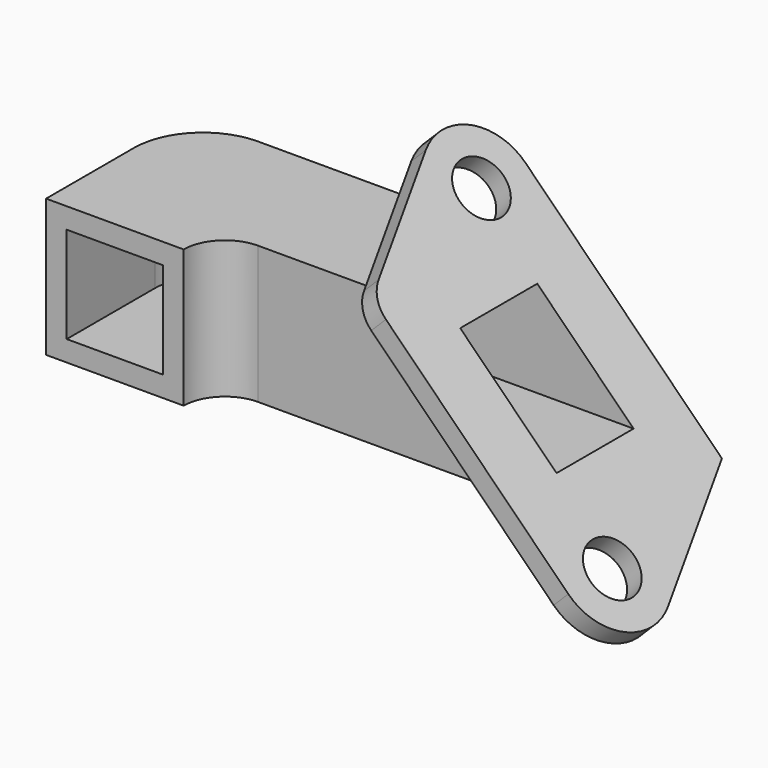
from build123d import *

# Parameters (mm, degrees)
F1_DEPTH = 20
F2_T     = -6
F4_DEPTH = 40.001
F5_R     = 8
F5_W     = 39.5979797464
F5_H     = 28
F6_DEPTH = 6
F7_W     = 28
F7_H     = 28
F8_DEPTH = 143.1345136524


with BuildPart() as f1:
    # F0 (on Top) → F1 (new body, symmetric)
    with BuildSketch(Plane.XY):
        with BuildLine():
            Line((-20, 32), (-20, 0))
            Line((-20, 0), (20, 0))
            ThreePointArc((20, 0), (23.5147186258, 8.4852813742), (32, 12))
            Line((32, 12), (120, 12))
            Line((120, 12), (80, 52))
            Line((80, 52), (0, 52))
            ThreePointArc((0, 52), (-14.1421356237, 46.1421356237), (-20, 32))
        make_face()
        Polygon((80, 52), (120, 12), (120, 52), align=None)
    extrude(amount=F1_DEPTH, both=True)

    # F2
    f2_openings = [f1.faces().sort_by_distance(p)[0] for p in [
        (0, 0, 0),
        (120, 32, 0),
    ]]
    offset(amount=F2_T, openings=f2_openings)

    # F3 (on face) → F4 (cut, through all)
    with BuildSketch(Plane.XZ.offset(-12)):
        Polygon((80, 20), (120, -20), (120, 20), align=None)
    extrude(amount=-F4_DEPTH, mode=Mode.SUBTRACT)

    # F5 (on face) → F6 (join)
    with BuildSketch(Plane(origin=(50, 0, 50), x_dir=(0.7071067812, 0, -0.7071067812), z_dir=(0.7071067812, 0, 0.7071067812))):
        with BuildLine():
            Line((106.4730738116, 64), (25.7106781187, 64))
            ThreePointArc((25.7106781187, 64), (11.8542716581, 56), (11.8542716581, 40))
            Line((11.8542716581, 40), (32.0615310797, 5))
            ThreePointArc((32.0615310797, 5), (35.7217851176, 1.3397459622), (40.7217851176, 0))
            Line((40.7217851176, 0), (115.7106781187, 0))
            ThreePointArc((115.7106781187, 0), (129.5670845792, 8), (129.5670845792, 24))
            Line((129.5670845792, 24), (106.4730738116, 64))
        make_face()
        with Locations((115.7106781187, 16)):
            Circle(F5_R, mode=Mode.SUBTRACT)
        with Locations((25.7106781187, 48)):
            Circle(F5_R, mode=Mode.SUBTRACT)
        with Locations((70.7106781187, 32)):
            Rectangle(F5_W, F5_H, mode=Mode.SUBTRACT)
    extrude(amount=-F6_DEPTH)

    # F7 (on Right) → F8 (cut, through all)
    with BuildSketch(Plane.YZ):
        with Locations((32, 0)):
            Rectangle(F7_W, F7_H)
    extrude(amount=F8_DEPTH, mode=Mode.SUBTRACT)


solid = f1.part
